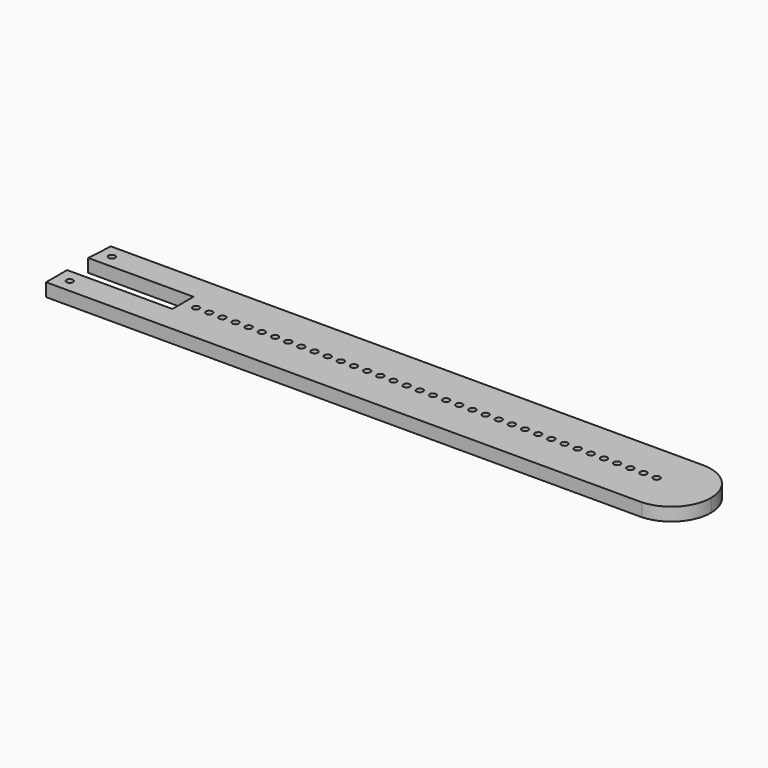
from build123d import *

# Parameters (mm, degrees)
F0_R     = 3.175
F1_DEPTH = 12.7


with BuildPart() as f1:
    # F0 (on Top) → F1 (new body)
    with BuildSketch(Plane.XY):
        with BuildLine():
            ThreePointArc((221.836648, 0.429336), (233.880113, 25.594224), (259.842194, 35.806324))
            Line((259.842194, 35.806324), (-311.66081, 35.850991))
            Line((-311.66081, 35.850991), (-313.265413, 10.44911))
            Line((-313.265413, 10.44911), (-211.665413, 10.44911))
            Line((-211.665413, 10.44911), (-211.665413, -14.95089))
            Line((-211.665413, -14.95089), (-313.265413, -14.95089))
            Line((-313.265413, -14.95089), (-313.265413, -40.349009))
            Line((-313.265413, -40.349009), (257.994878, -40.349009))
            ThreePointArc((257.994878, -40.349009), (233.182114, -29.515154), (221.830868, -4.934779))
            ThreePointArc((221.830868, -4.934779), (216.959589, -2.247469), (221.836648, 0.429336))
        make_face()
        with Locations((-300.565413, -27.65089)):
            Circle(F0_R, mode=Mode.SUBTRACT)
        with Locations((-198.965413, -2.25089)):
            Circle(F0_R, mode=Mode.SUBTRACT)
        with Locations((-186.265413, -2.25089)):
            Circle(F0_R, mode=Mode.SUBTRACT)
        with Locations((-173.565413, -2.25089)):
            Circle(F0_R, mode=Mode.SUBTRACT)
        with Locations((-160.865413, -2.25089)):
            Circle(F0_R, mode=Mode.SUBTRACT)
        with Locations((-148.165413, -2.25089)):
            Circle(F0_R, mode=Mode.SUBTRACT)
        with Locations((-135.465413, -2.25089)):
            Circle(F0_R, mode=Mode.SUBTRACT)
        with Locations((-122.765413, -2.25089)):
            Circle(F0_R, mode=Mode.SUBTRACT)
        with Locations((-110.065413, -2.25089)):
            Circle(F0_R, mode=Mode.SUBTRACT)
        with Locations((-97.365413, -2.25089)):
            Circle(F0_R, mode=Mode.SUBTRACT)
        with Locations((-84.665413, -2.25089)):
            Circle(F0_R, mode=Mode.SUBTRACT)
        with Locations((-71.965413, -2.25089)):
            Circle(F0_R, mode=Mode.SUBTRACT)
        with Locations((-59.265413, -2.25089)):
            Circle(F0_R, mode=Mode.SUBTRACT)
        with Locations((-46.565413, -2.25089)):
            Circle(F0_R, mode=Mode.SUBTRACT)
        with Locations((-33.865413, -2.25089)):
            Circle(F0_R, mode=Mode.SUBTRACT)
        with Locations((-21.165413, -2.25089)):
            Circle(F0_R, mode=Mode.SUBTRACT)
        with Locations((-8.465413, -2.25089)):
            Circle(F0_R, mode=Mode.SUBTRACT)
        with Locations((-300.565413, 23.14911)):
            Circle(F0_R, mode=Mode.SUBTRACT)
        with Locations((4.234587, -2.25089)):
            Circle(F0_R, mode=Mode.SUBTRACT)
        with Locations((16.934587, -2.25089)):
            Circle(F0_R, mode=Mode.SUBTRACT)
        with Locations((29.634587, -2.25089)):
            Circle(F0_R, mode=Mode.SUBTRACT)
        with Locations((42.334587, -2.25089)):
            Circle(F0_R, mode=Mode.SUBTRACT)
        with Locations((55.034587, -2.25089)):
            Circle(F0_R, mode=Mode.SUBTRACT)
        with Locations((67.734587, -2.25089)):
            Circle(F0_R, mode=Mode.SUBTRACT)
        with Locations((80.434587, -2.25089)):
            Circle(F0_R, mode=Mode.SUBTRACT)
        with Locations((93.134587, -2.25089)):
            Circle(F0_R, mode=Mode.SUBTRACT)
        with Locations((105.834587, -2.25089)):
            Circle(F0_R, mode=Mode.SUBTRACT)
        with Locations((118.534587, -2.25089)):
            Circle(F0_R, mode=Mode.SUBTRACT)
        with Locations((131.234587, -2.25089)):
            Circle(F0_R, mode=Mode.SUBTRACT)
        with Locations((143.934587, -2.25089)):
            Circle(F0_R, mode=Mode.SUBTRACT)
        with Locations((156.634587, -2.25089)):
            Circle(F0_R, mode=Mode.SUBTRACT)
        with Locations((169.334587, -2.25089)):
            Circle(F0_R, mode=Mode.SUBTRACT)
        with Locations((182.034587, -2.25089)):
            Circle(F0_R, mode=Mode.SUBTRACT)
        with Locations((194.734587, -2.25089)):
            Circle(F0_R, mode=Mode.SUBTRACT)
        with Locations((207.434587, -2.25089)):
            Circle(F0_R, mode=Mode.SUBTRACT)
        with BuildLine():
            ThreePointArc((261.683555, -40.349009), (287.424351, -28.574283), (297.939217, -2.293675))
            ThreePointArc((297.939217, -2.293675), (286.781038, 24.64604), (259.842194, 35.806324))
            ThreePointArc((259.842194, 35.806324), (233.880113, 25.594224), (221.836648, 0.429336))
            ThreePointArc((221.836648, 0.429336), (222.917092, -0.721743), (223.309587, -2.25089))
            ThreePointArc((223.309587, -2.25089), (222.915443, -3.783035), (221.830868, -4.934779))
            ThreePointArc((221.830868, -4.934779), (233.182114, -29.515154), (257.994878, -40.349009))
            Line((257.994878, -40.349009), (261.683555, -40.349009))
        make_face()
        with Locations((232.834587, -2.25089)):
            Circle(F0_R, mode=Mode.SUBTRACT)
        with Locations((245.534587, -2.25089)):
            Circle(F0_R, mode=Mode.SUBTRACT)
    extrude(amount=F1_DEPTH)


solid = f1.part
